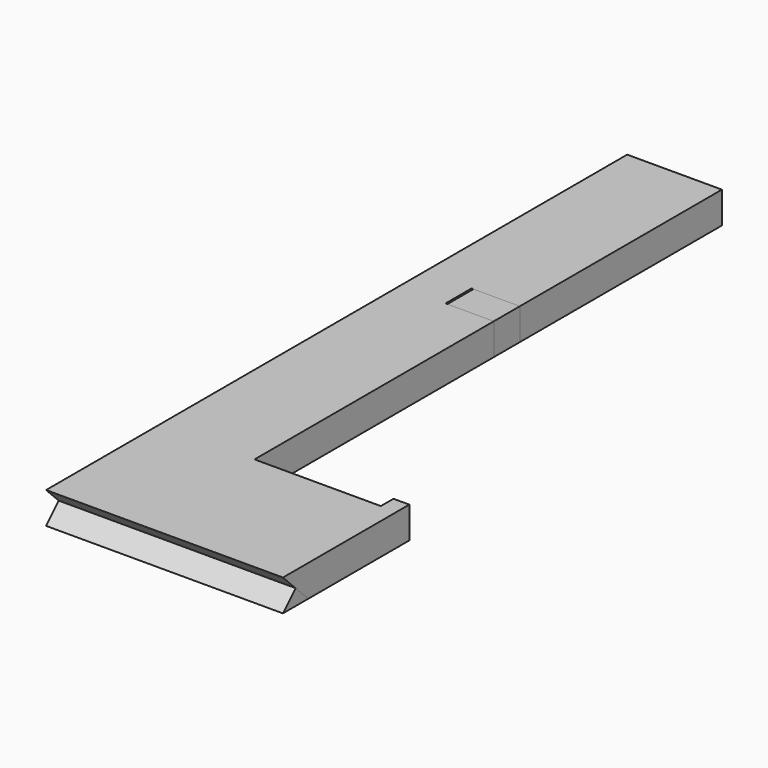
from build123d import *

# Parameters (mm, degrees)
SKETCH_W        = 75
SKETCH_H        = 230
PAD_DEPTH       = 10
POCKET_DEPTH    = 75
SKETCH004_W     = 15.3
SKETCH004_H     = 10.3
POCKET002_DEPTH = 10
POCKET003_DEPTH = 10
SKETCH001_W     = 75
SKETCH001_H     = 230
PAD001_DEPTH    = 10
POCKET001_DEPTH = 75
SKETCH006_W     = 15.3
SKETCH006_H     = 10.3
POCKET004_DEPTH = 10
POCKET005_DEPTH = 10


with BuildPart() as left_hook:
    # Sketch → Pad (new body)
    with BuildSketch(Plane.XY):
        Rectangle(SKETCH_W, SKETCH_H)
    extrude(amount=PAD_DEPTH)

    # Sketch002 (on DatumPlane) → Pocket (cut)
    with BuildSketch(Plane.YZ.offset(37.5)):
        Polygon((-115, 0), (-115, 10), (-105, 10), align=None)
    extrude(amount=-POCKET_DEPTH, mode=Mode.SUBTRACT)

    # Sketch004 (on DatumPlane) → Pocket002 (cut)
    with BuildSketch(Plane.XY.offset(10)):
        with Locations((-29.85, 29.85)):
            Rectangle(SKETCH004_W, SKETCH004_H)
    extrude(amount=-POCKET002_DEPTH, mode=Mode.SUBTRACT)

    # Sketch005 (on DatumPlane) → Pocket003 (cut)
    with BuildSketch(Plane.XY.offset(10)):
        Polygon((37.5, 115), (-7.5, 115), (-7.5, -70), (32.5, -70), (32.5, -65), (37.5, -65), align=None)
    extrude(amount=-POCKET003_DEPTH, mode=Mode.SUBTRACT)


with BuildPart() as right_hook:
    # Sketch001 → Pad001 (new body)
    with BuildSketch(Plane.XY):
        Rectangle(SKETCH001_W, SKETCH001_H)
    extrude(amount=PAD001_DEPTH)

    # Sketch003 (on DatumPlane) → Pocket001 (cut)
    with BuildSketch(Plane.YZ.offset(37.5)):
        Polygon((-115, 0), (-105, 0), (-115, 10), align=None)
    extrude(amount=-POCKET001_DEPTH, mode=Mode.SUBTRACT)

    # Sketch006 (on DatumPlane) → Pocket004 (cut)
    with BuildSketch(Plane.XY.offset(10)):
        with Locations((-15.15, 29.85)):
            Rectangle(SKETCH006_W, SKETCH006_H)
    extrude(amount=-POCKET004_DEPTH, mode=Mode.SUBTRACT)

    # Sketch007 (on DatumPlane) → Pocket005 (cut)
    with BuildSketch(Plane.XY.offset(10)):
        Polygon((-7.5, 115), (-7.5, -70), (32.5, -70), (32.5, -65), (37.5, -65), (37.5, 115), align=None)
    extrude(amount=-POCKET005_DEPTH, mode=Mode.SUBTRACT)


solid = Compound([left_hook.part, right_hook.part])
